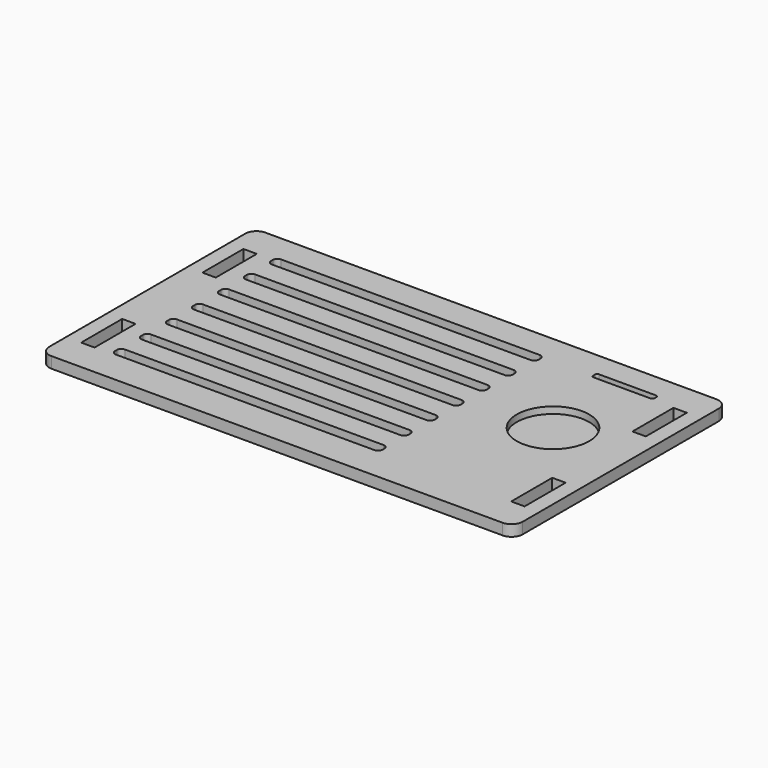
from build123d import *

# Parameters (mm, degrees)
F0_W     = 539.75
F0_H     = 304.8
F0_W_2   = 15.24
F0_H_2   = 58.42
F0_W_3   = 304.8
F0_H_3   = 12.7
F0_R     = 47.625
F0_W_4   = 69.85
F0_H_4   = 7.62
F1_DEPTH = 12.7
F0_W_5   = 10.4902
F0_H_5   = 4.572
F2_DEPTH = 2.54
F0_R_2   = 41.275
F3_DEPTH = 12.7
F4_DEPTH = 5.08
F5_R     = 12.7
F6_R     = 5.08
F7_R     = 2.54
F8_R     = 2.032


with BuildPart() as f1:
    # F0 (on Top) → F1 (new body)
    with BuildSketch(Plane.XY):
        Rectangle(F0_W, F0_H)
        with Locations((-245.098478, -86.36)):
            Rectangle(F0_W_2, F0_H_2, mode=Mode.SUBTRACT)
        with Locations((-66.675, -107.95)):
            Rectangle(F0_W_3, F0_H_3, mode=Mode.SUBTRACT)
        with Locations((-66.675, -70.889322)):
            Rectangle(F0_W_3, F0_H_3, mode=Mode.SUBTRACT)
        with Locations((-66.675, -33.828645)):
            Rectangle(F0_W_3, F0_H_3, mode=Mode.SUBTRACT)
        with Locations((245.098478, -86.36)):
            Rectangle(F0_W_2, F0_H_2, mode=Mode.SUBTRACT)
        with Locations((-66.675, 3.232033)):
            Rectangle(F0_W_3, F0_H_3, mode=Mode.SUBTRACT)
        with Locations((-66.675, 40.292711)):
            Rectangle(F0_W_3, F0_H_3, mode=Mode.SUBTRACT)
        with Locations((-245.098478, 86.36)):
            Rectangle(F0_W_2, F0_H_2, mode=Mode.SUBTRACT)
        with Locations((-66.675, 77.353389)):
            Rectangle(F0_W_3, F0_H_3, mode=Mode.SUBTRACT)
        with Locations((-66.675, 114.414066)):
            Rectangle(F0_W_3, F0_H_3, mode=Mode.SUBTRACT)
        with Locations((177.8, 18.529066)):
            Circle(F0_R, mode=Mode.SUBTRACT)
        with Locations((245.098478, 86.36)):
            Rectangle(F0_W_2, F0_H_2, mode=Mode.SUBTRACT)
        with Locations((177.8, 120.764066)):
            Rectangle(F0_W_4, F0_H_4, mode=Mode.SUBTRACT)
    extrude(amount=F1_DEPTH)

    # F0 (on Top) → F2 (join)
    with BuildSketch(Plane.XY):
        with Locations((177.8, 120.764066)):
            Rectangle(F0_W_4, F0_H_4)
        with Locations((177.8, 120.764066)):
            Rectangle(F0_W_5, F0_H_5, mode=Mode.SUBTRACT)
    extrude(amount=F2_DEPTH)

    # F0 (on Top) → F3 (join)
    with BuildSketch(Plane.XY):
        with Locations((177.8, 18.529066)):
            Circle(F0_R)
        with Locations((177.8, 18.529066)):
            Circle(F0_R_2, mode=Mode.SUBTRACT)
    extrude(amount=F3_DEPTH)

    # F0 (on Top) → F4 (join)
    with BuildSketch(Plane.XY):
        with Locations((177.8, 18.529066)):
            Circle(F0_R_2)
    extrude(amount=F4_DEPTH)

    # F5
    f5_edges = [f1.edges().sort_by_distance(p)[0] for p in [
        (-269.875, 152.4, 6.35),
        (269.875, 152.4, 6.35),
        (269.875, -152.4, 6.35),
        (-269.875, -152.4, 6.35),
    ]]
    fillet(f5_edges, radius=F5_R)

    # F6
    f6_edges = [f1.edges().sort_by_distance(p)[0] for p in [
        (-219.075, 120.764066, 6.35),
        (85.725, 120.764066, 6.35),
        (-219.075, 33.942711, 6.35),
        (-219.075, -3.117967, 6.35),
        (-219.075, -40.178645, 6.35),
        (-219.075, -77.239322, 6.35),
        (-219.075, -114.3, 6.35),
        (-219.075, 108.064066, 6.35),
        (-219.075, 71.003389, 6.35),
        (85.725, 108.064066, 6.35),
        (85.725, 71.003389, 6.35),
        (85.725, 33.942711, 6.35),
        (85.725, -3.117967, 6.35),
        (85.725, -40.178645, 6.35),
        (85.725, -77.239322, 6.35),
        (85.725, -114.3, 6.35),
        (85.725, -101.6, 6.35),
        (85.725, -64.539322, 6.35),
        (85.725, -27.478645, 6.35),
        (85.725, 9.582033, 6.35),
        (85.725, 46.642711, 6.35),
        (85.725, 83.703389, 6.35),
        (-219.075, -101.6, 6.35),
        (-219.075, -64.539322, 6.35),
        (-219.075, -27.478645, 6.35),
        (-219.075, 9.582033, 6.35),
        (-219.075, 46.642711, 6.35),
        (-219.075, 83.703389, 6.35),
    ]]
    fillet(f6_edges, radius=F6_R)

    # F7
    f7_edges = [f1.edges().sort_by_distance(p)[0] for p in [
        (142.875, 124.574066, 7.62),
        (212.725, 124.574066, 7.62),
        (142.875, 116.954066, 7.62),
        (212.725, 116.954066, 7.62),
    ]]
    fillet(f7_edges, radius=F7_R)

    # F8
    f8_edges = [f1.edges().sort_by_distance(p)[0] for p in [
        (172.5549, 123.050066, 1.27),
        (183.0451, 123.050066, 1.27),
        (183.0451, 118.478066, 1.27),
        (172.5549, 118.478066, 1.27),
    ]]
    fillet(f8_edges, radius=F8_R)


solid = f1.part
